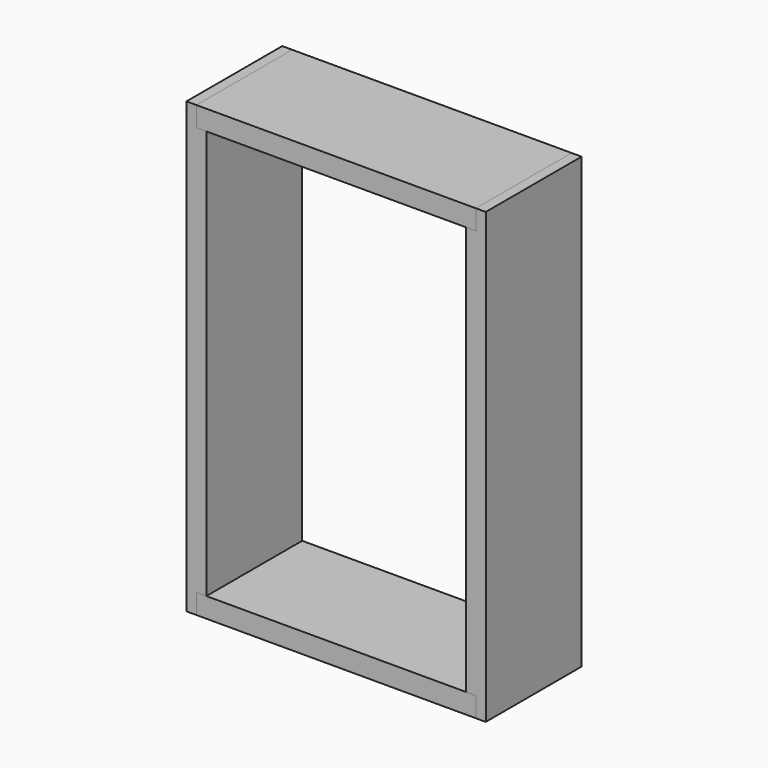
from build123d import *

# Parameters (mm, degrees)
F1_DEPTH = 60
F2_W     = 140
F2_H     = 10
F3_DEPTH = 60


with BuildPart() as f1:
    # F0 (on Front) → F1 (new body)
    with BuildSketch(Plane.XZ):
        Polygon((-70, 225), (-75, 225), (-75, 0), (-70, 0), (-70, 10), (-65, 10), (-65, 215), (-70, 215), align=None)
        Polygon((75, 0), (75, 225), (70, 225), (70, 215), (65, 215), (65, 159.04355), (65, 10), (70, 10), (70, 0), align=None)
    extrude(amount=-F1_DEPTH)


with BuildPart() as f3:
    # F2 (on Front) → F3 (new body)
    with BuildSketch(Plane.XZ):
        with Locations((0, 5)):
            Rectangle(F2_W, F2_H)
        with Locations((0, 220)):
            Rectangle(F2_W, F2_H)
    extrude(amount=-F3_DEPTH)


solid = Compound([f1.part, f3.part])
